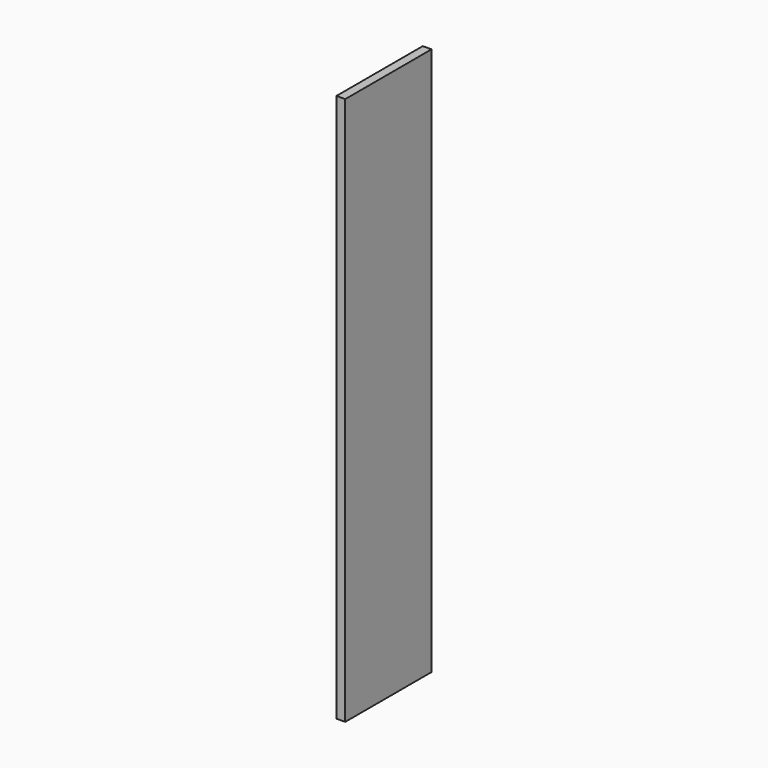
from build123d import *

# Parameters (mm, degrees)
F1_W     = 234.95
F1_H     = 1193.8
F2_DEPTH = 19.05


with BuildPart() as f2:
    # F1 (on offset) → F2 (new body)
    with BuildSketch(Plane.YZ.offset(584.2)):
        Rectangle(F1_W, F1_H)
    extrude(amount=F2_DEPTH)


solid = f2.part
